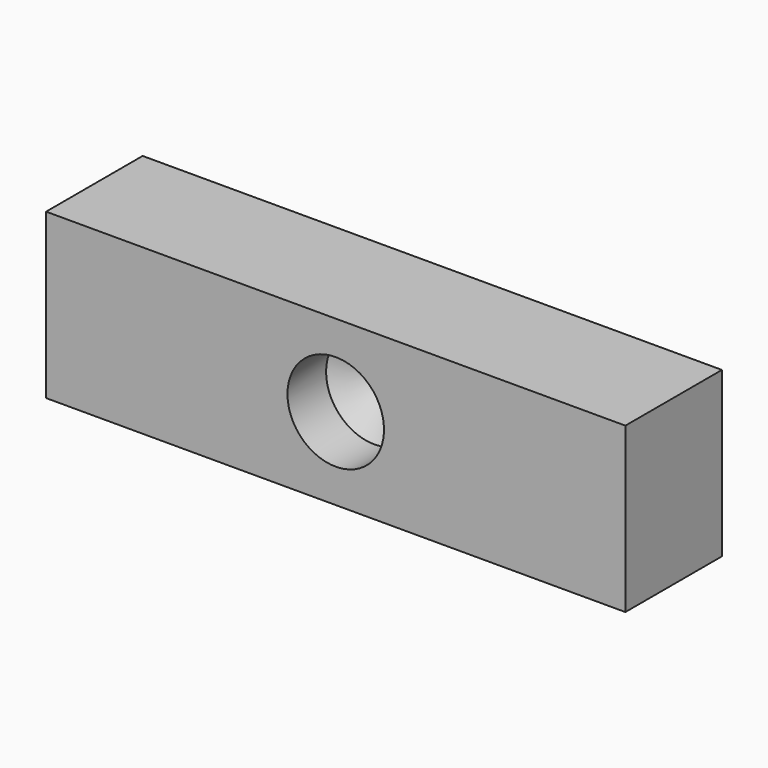
from build123d import *

# Parameters (mm, degrees)
F0_W     = 24
F0_H     = 6.8
F1_DEPTH = 5
F3_D     = 4
F3_DEPTH = 2
F3_TIP   = 1.2017212381


with BuildPart() as f1:
    # F0 (on Front) → F1 (new body)
    with BuildSketch(Plane.XZ):
        with Locations((0, 63.9989495563)):
            Rectangle(F0_W, F0_H)
    extrude(amount=F1_DEPTH)

    # F3
    with Locations(Plane.XZ.offset(5)):
        with Locations((0, 63.9989495563)):
            Hole(F3_D / 2, depth=F3_DEPTH)
            with Locations((0, 0, -(F3_DEPTH + F3_TIP / 2))):  # 118° drill point
                Cone(0, F3_D / 2, F3_TIP, mode=Mode.SUBTRACT)


solid = f1.part
